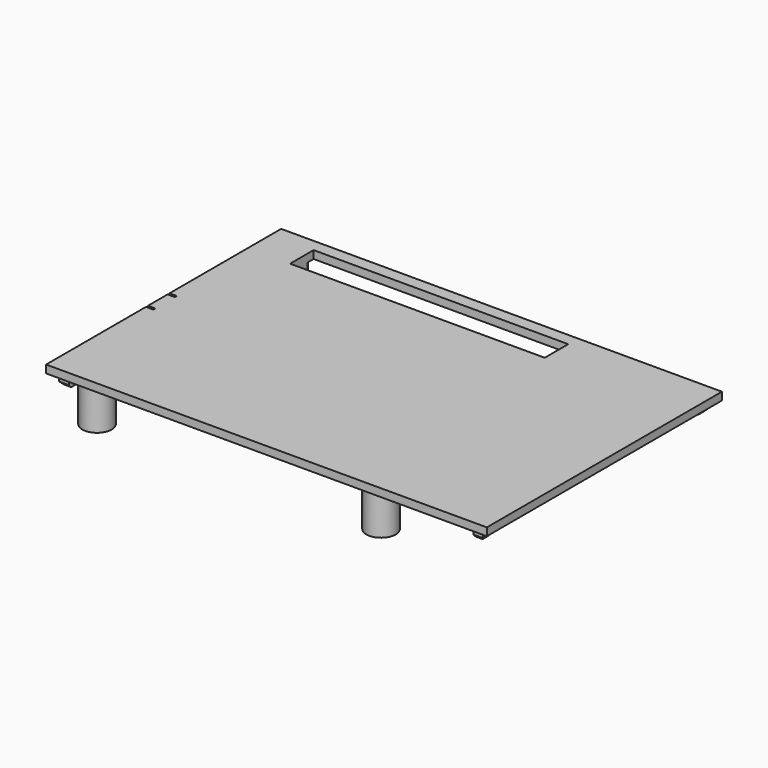
from build123d import *

# Parameters (mm, degrees)
BOX063_W                   = 4
BOX063_H                   = 1.6
BOX063_DEPTH               = 0.6
CYLINDER043_R              = 1.5
CYLINDER043_DEPTH          = 0.6
CYLINDER042_R              = 2.2
CYLINDER042_DEPTH          = 0.6
BOX064_W                   = 3.6
BOX064_H                   = 0.8
BOX064_DEPTH               = 0.6
FUSION040_PLACEMENT_ANGLE  = 90
BOX061_W                   = 1.5
BOX061_H                   = 0.5
BOX061_DEPTH               = 3
BOX066_W                   = 1.5
BOX066_H                   = 0.5
BOX066_DEPTH               = 3
BOX060_W                   = 0.5
BOX060_H                   = 6
BOX060_DEPTH               = 1
BOX068_W                   = 52
BOX068_H                   = 6
BOX068_DEPTH               = 12
CYLINDER045_R              = 1.3
CYLINDER045_DEPTH          = 8
CYLINDER037_R              = 1.3
CYLINDER037_DEPTH          = 8
CYLINDER044_R              = 1.3
CYLINDER044_DEPTH          = 8
CYLINDER040_R              = 1.3
CYLINDER040_DEPTH          = 8
CYLINDER041_R              = 3
CYLINDER041_DEPTH          = 9.5
CYLINDER039_R              = 3
CYLINDER039_DEPTH          = 9.5
CYLINDER046_R              = 3
CYLINDER046_DEPTH          = 9.5
CYLINDER038_R              = 3
CYLINDER038_DEPTH          = 9.5
BOX069_W                   = 90
BOX069_H                   = 60
BOX069_DEPTH               = 1.6
BOX059_W                   = 1.5
BOX059_H                   = 5
BOX059_DEPTH               = 8.5
BOX070_W                   = 2
BOX070_H                   = 2
BOX070_DEPTH               = 2
BOX062_W                   = 2
BOX062_H                   = 2
BOX062_DEPTH               = 2
BOX065_W                   = 2
BOX065_H                   = 2
BOX065_DEPTH               = 2
BOX067_W                   = 2
BOX067_H                   = 2
BOX067_DEPTH               = 2
CHAMFER007_SIZE            = 0.6
CHAMFER007_PLACEMENT_ANGLE = 180


with BuildPart() as obj1:
    # Box063 → Box063 (new body)
    with BuildSketch(Plane(origin=(0, -0.8, 0), x_dir=(1, 0, 0), z_dir=(0, 0, 1))):
        with Locations((2, 0.8)):
            Rectangle(BOX063_W, BOX063_H)
    extrude(amount=BOX063_DEPTH)


with BuildPart() as zylinder042:
    # Cylinder043 → Cylinder043 (new body)
    with BuildSketch(Plane.XY):
        Circle(CYLINDER043_R)
    extrude(amount=CYLINDER043_DEPTH)


with BuildPart() as off:
    # Cylinder042 → Cylinder042 (new body)
    with BuildSketch(Plane.XY):
        Circle(CYLINDER042_R)
    extrude(amount=CYLINDER042_DEPTH)

    # Cut026: cut Zylinder042
    add(zylinder042.part, mode=Mode.SUBTRACT)

    # Cut023: cut obj1
    add(obj1.part, mode=Mode.SUBTRACT)


with BuildPart() as obj2:
    # Box064 → Box064 (new body)
    with BuildSketch(Plane(origin=(0, -0.4, 0), x_dir=(1, 0, 0), z_dir=(0, 0, 1))):
        with Locations((1.8, 0.4)):
            Rectangle(BOX064_W, BOX064_H)
    extrude(amount=BOX064_DEPTH)

    # Fusion040: union Off
    add(off.part)


with BuildPart() as obj2_1:
    # Fusion040 placement: moved
    add(obj2.part.moved(Location((-44.4, -1.5, 11))).rotate(Axis((-44.4, -1.5, 11), (0, -1, 0)), FUSION040_PLACEMENT_ANGLE))


with BuildPart() as obj3:
    # Box061 → Box061 (new body)
    with BuildSketch(Plane(origin=(-45, 1, 15), x_dir=(1, 0, 0), z_dir=(0, 0, 1))):
        with Locations((0.75, 0.25)):
            Rectangle(BOX061_W, BOX061_H)
    extrude(amount=BOX061_DEPTH)


with BuildPart() as obj4:
    # Box066 → Box066 (new body)
    with BuildSketch(Plane(origin=(-45, -4.5, 15), x_dir=(1, 0, 0), z_dir=(0, 0, 1))):
        with Locations((0.75, 0.25)):
            Rectangle(BOX066_W, BOX066_H)
    extrude(amount=BOX066_DEPTH)


with BuildPart() as obj5:
    # Box060 → Box060 (new body)
    with BuildSketch(Plane(origin=(-43.5, -4.5, 15), x_dir=(1, 0, 0), z_dir=(0, 0, 1))):
        with Locations((0.25, 3)):
            Rectangle(BOX060_W, BOX060_H)
    extrude(amount=BOX060_DEPTH)

    # Fusion038: union obj3, obj4
    add(obj3.part)
    add(obj4.part)


with BuildPart() as obj6:
    # Box068 → Box068 (new body)
    with BuildSketch(Plane(origin=(-36.38, 21.5, 6), x_dir=(1, 0, 0), z_dir=(0, 0, 1))):
        with Locations((26, 3)):
            Rectangle(BOX068_W, BOX068_H)
    extrude(amount=BOX068_DEPTH)


with BuildPart() as zylinder044:
    # Cylinder045 → Cylinder045 (new body)
    with BuildSketch(Plane(origin=(-39, 24.5, 0), x_dir=(1, 0, 0), z_dir=(0, 0, 1))):
        Circle(CYLINDER045_R)
    extrude(amount=CYLINDER045_DEPTH)


with BuildPart() as fusion064:
    # Cylinder037 → Cylinder037 (new body)
    with BuildSketch(Plane(origin=(-39, -24.5, 0), x_dir=(1, 0, 0), z_dir=(0, 0, 1))):
        Circle(CYLINDER037_R)
    extrude(amount=CYLINDER037_DEPTH)

    # Fusion064: union Zylinder044
    add(zylinder044.part)


with BuildPart() as fusion064_1:
    # Fusion064 placement: moved
    add(fusion064.part.moved(Location((58, 0, 0))))


with BuildPart() as zylinder043:
    # Cylinder044 → Cylinder044 (new body)
    with BuildSketch(Plane(origin=(-39, 24.5, 0), x_dir=(1, 0, 0), z_dir=(0, 0, 1))):
        Circle(CYLINDER044_R)
    extrude(amount=CYLINDER044_DEPTH)


with BuildPart() as obj7:
    # Cylinder040 → Cylinder040 (new body)
    with BuildSketch(Plane(origin=(-39, -24.5, 0), x_dir=(1, 0, 0), z_dir=(0, 0, 1))):
        Circle(CYLINDER040_R)
    extrude(amount=CYLINDER040_DEPTH)

    # Fusion070: union Zylinder043
    add(zylinder043.part)

    # Fusion069: union Fusion064
    add(fusion064_1.part)


with BuildPart() as obj7_1:
    # Fusion069 placement: moved
    add(obj7.part.moved(Location((0, 0, 5.6))))


with BuildPart() as zylinder040:
    # Cylinder041 → Cylinder041 (new body)
    with BuildSketch(Plane(origin=(-39, 24.5, 2), x_dir=(1, 0, 0), z_dir=(0, 0, 1))):
        Circle(CYLINDER041_R)
    extrude(amount=CYLINDER041_DEPTH)


with BuildPart() as fusion068:
    # Cylinder039 → Cylinder039 (new body)
    with BuildSketch(Plane(origin=(-39, -24.5, 2), x_dir=(1, 0, 0), z_dir=(0, 0, 1))):
        Circle(CYLINDER039_R)
    extrude(amount=CYLINDER039_DEPTH)

    # Fusion068: union Zylinder040
    add(zylinder040.part)


with BuildPart() as fusion068_1:
    # Fusion068 placement: moved
    add(fusion068.part.moved(Location((58, 0, 0))))


with BuildPart() as zylinder045:
    # Cylinder046 → Cylinder046 (new body)
    with BuildSketch(Plane(origin=(-39, 24.5, 2), x_dir=(1, 0, 0), z_dir=(0, 0, 1))):
        Circle(CYLINDER046_R)
    extrude(amount=CYLINDER046_DEPTH)


with BuildPart() as obj8:
    # Cylinder038 → Cylinder038 (new body)
    with BuildSketch(Plane(origin=(-39, -24.5, 2), x_dir=(1, 0, 0), z_dir=(0, 0, 1))):
        Circle(CYLINDER038_R)
    extrude(amount=CYLINDER038_DEPTH)

    # Fusion062: union Zylinder045
    add(zylinder045.part)

    # Fusion063: union Fusion068
    add(fusion068_1.part)


with BuildPart() as obj8_1:
    # Fusion063 placement: moved
    add(obj8.part.moved(Location((0, 0, 4.1))))

    # Cut022: cut obj7
    add(obj7_1.part, mode=Mode.SUBTRACT)


with BuildPart() as obj9:
    # Box069 → Box069 (new body)
    with BuildSketch(Plane(origin=(-45, -30, 15.5), x_dir=(1, 0, 0), z_dir=(0, 0, 1))):
        with Locations((45, 30)):
            Rectangle(BOX069_W, BOX069_H)
    extrude(amount=BOX069_DEPTH)

    # Fusion037: union obj8
    add(obj8_1.part)

    # Cut021: cut obj6
    add(obj6.part, mode=Mode.SUBTRACT)

    # Cut025: cut obj5
    add(obj5.part, mode=Mode.SUBTRACT)


with BuildPart() as deckel_mit_io_button:
    # Box059 → Box059 (new body)
    with BuildSketch(Plane(origin=(-45, -4, 7), x_dir=(1, 0, 0), z_dir=(0, 0, 1))):
        with Locations((0.75, 2.5)):
            Rectangle(BOX059_W, BOX059_H)
    extrude(amount=BOX059_DEPTH)

    # Fusion039: union obj9
    add(obj9.part)

    # Cut024: cut obj2
    add(obj2_1.part, mode=Mode.SUBTRACT)


with BuildPart() as obj10:
    # Box070 → Box070 (new body)
    with BuildSketch(Plane(origin=(41.3, -28.8, 14), x_dir=(1, 0, 0), z_dir=(0, 0, 1))):
        with Locations((1, 1)):
            Rectangle(BOX070_W, BOX070_H)
    extrude(amount=BOX070_DEPTH)


with BuildPart() as fusion066:
    # Box062 → Box062 (new body)
    with BuildSketch(Plane(origin=(41.3, 26.8, 14), x_dir=(1, 0, 0), z_dir=(0, 0, 1))):
        with Locations((1, 1)):
            Rectangle(BOX062_W, BOX062_H)
    extrude(amount=BOX062_DEPTH)

    # Fusion066: union obj10
    add(obj10.part)


with BuildPart() as fusion066_1:
    # Fusion066 placement: moved
    add(fusion066.part.moved(Location((-84.6, 0, 0))))


with BuildPart() as obj11:
    # Box065 → Box065 (new body)
    with BuildSketch(Plane(origin=(41.3, -28.8, 14), x_dir=(1, 0, 0), z_dir=(0, 0, 1))):
        with Locations((1, 1)):
            Rectangle(BOX065_W, BOX065_H)
    extrude(amount=BOX065_DEPTH)


with BuildPart() as obj12:
    # Box067 → Box067 (new body)
    with BuildSketch(Plane(origin=(41.3, 26.8, 14), x_dir=(1, 0, 0), z_dir=(0, 0, 1))):
        with Locations((1, 1)):
            Rectangle(BOX067_W, BOX067_H)
    extrude(amount=BOX067_DEPTH)

    # Fusion061: union obj11
    add(obj11.part)

    # Fusion065: union Fusion066
    add(fusion066_1.part)

    # Chamfer007
    chamfer007_edges = [obj12.edges().sort_by_distance(p)[0] for p in [
        (43.3, 27.8, 16),
        (42.3, 28.8, 16),
        (43.3, -27.8, 16),
        (42.3, -28.8, 16),
        (-43.3, 27.8, 16),
        (-42.3, 28.8, 16),
        (-43.3, -27.8, 16),
        (-42.3, -28.8, 16),
    ]]
    chamfer(chamfer007_edges, length=CHAMFER007_SIZE)


with BuildPart() as obj12_1:
    # Chamfer007 placement: moved
    add(obj12.part.moved(Location((0, 0, 29.5))).rotate(Axis((0, 0, 29.5), (1, 0, 0)), CHAMFER007_PLACEMENT_ANGLE))

    # Fusion067: union Deckel mit IO-Button
    add(deckel_mit_io_button.part)


with BuildPart() as obj12_2:
    # Fusion067 placement: moved
    add(obj12_1.part.moved(Location((0, 0, 14.75))))


solid = obj12_2.part
